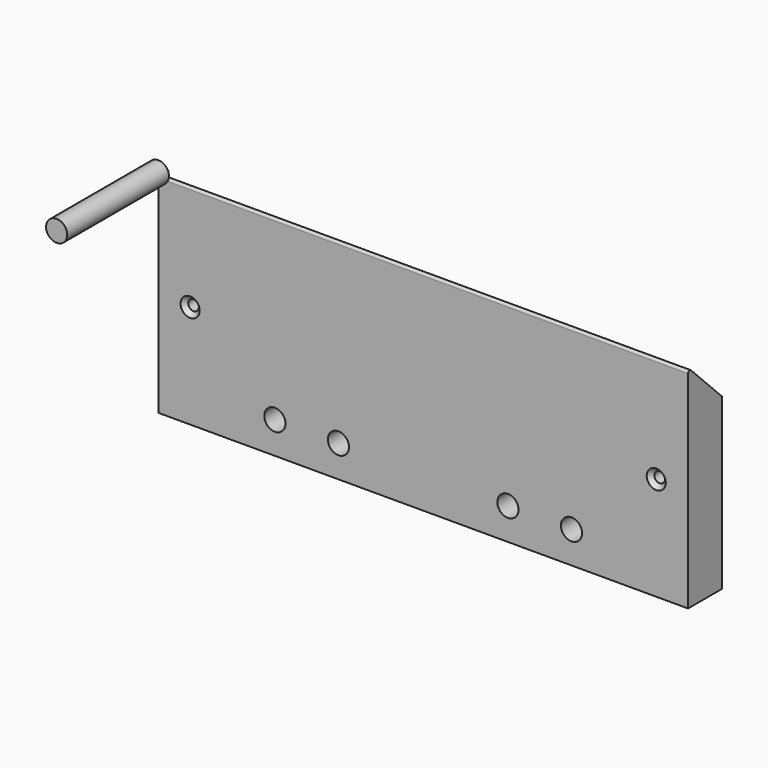
from build123d import *

# Parameters (mm, degrees)
F1_DEPTH       = 250
F4_D           = 10
F5_D           = 5
F5_CSINK_D     = 9
F5_CSINK_ANGLE = 90
F6_R           = 5
F7_DEPTH       = 60


with BuildPart() as f1:
    # F0 (on Right) → F1 (new body)
    with BuildSketch(Plane.YZ):
        with BuildLine():
            Line((20, -20), (1.707107, -1.707107))
            ThreePointArc((1.707107, -1.707107), (0.617317, -1.490334), (0, -2.414214))
            Line((0, -2.414214), (0, -100))
            Line((0, -100), (20, -100))
            Line((20, -100), (20, -20))
        make_face()
    extrude(amount=F1_DEPTH)

    # F4 (through all)
    with Locations(Plane.XZ):
        with Locations((55, -85), (85, -85), (165, -85), (195, -85)):
            Hole(F4_D / 2)

    # F5 (through all)
    with Locations(Plane.XZ):
        with Locations((15, -51.207107), (235, -51.207107)):
            CounterSinkHole(F5_D / 2, F5_CSINK_D / 2, counter_sink_angle=F5_CSINK_ANGLE)


with BuildPart() as f7:
    # F6 (on Front) → F7 (new body)
    with BuildSketch(Plane.XZ):
        Circle(F6_R)
    extrude(amount=F7_DEPTH)


solid = Compound([f1.part, f7.part])
